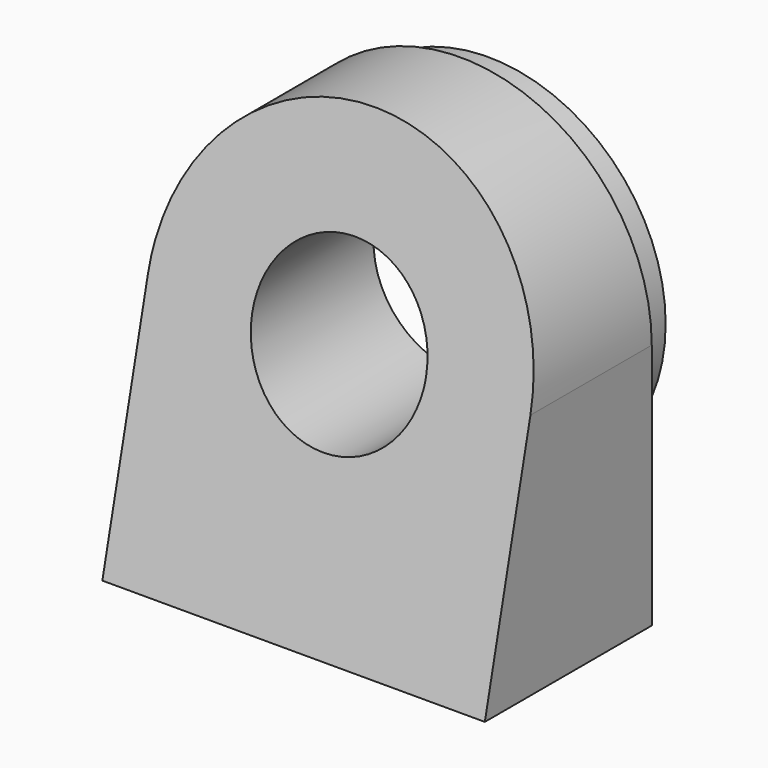
from build123d import *

# Parameters (mm, degrees)
F0_R     = 25.5
F0_R_2   = 24.5
F1_DEPTH = 5
F3_DEPTH = 27.5
F4_R     = 12.5
F5_DEPTH = 30.001


with BuildPart() as f1:
    # F0 (on Front) → F1 (new body)
    with BuildSketch(Plane.XZ):
        with Locations((0, 35.5)):
            Circle(F0_R)
        with Locations((0, 35.5)):
            Circle(F0_R_2, mode=Mode.SUBTRACT)
    extrude(amount=-F1_DEPTH)

    # F2 (on Right) → F3 (join, symmetric)
    with BuildSketch(Plane.YZ):
        Polygon((-30, 0), (0, 0), (0, 65), (-15, 65), align=None)
    extrude(amount=F3_DEPTH, both=True)

    # F4 (on Front) → F5 (cut, through all)
    with BuildSketch(Plane.XZ):
        with BuildLine():
            ThreePointArc((-27.5, 35.5), (0, 63), (27.5, 35.5))
            Line((27.5, 35.5), (32.5, 35.5))
            Line((32.5, 35.5), (32.5, 70))
            Line((32.5, 70), (-32.5, 70))
            Line((-32.5, 70), (-32.5, 35.5))
            Line((-32.5, 35.5), (-27.5, 35.5))
        make_face()
        with Locations((0, 35.5)):
            Circle(F4_R)
    extrude(amount=F5_DEPTH, mode=Mode.SUBTRACT)


solid = f1.part
